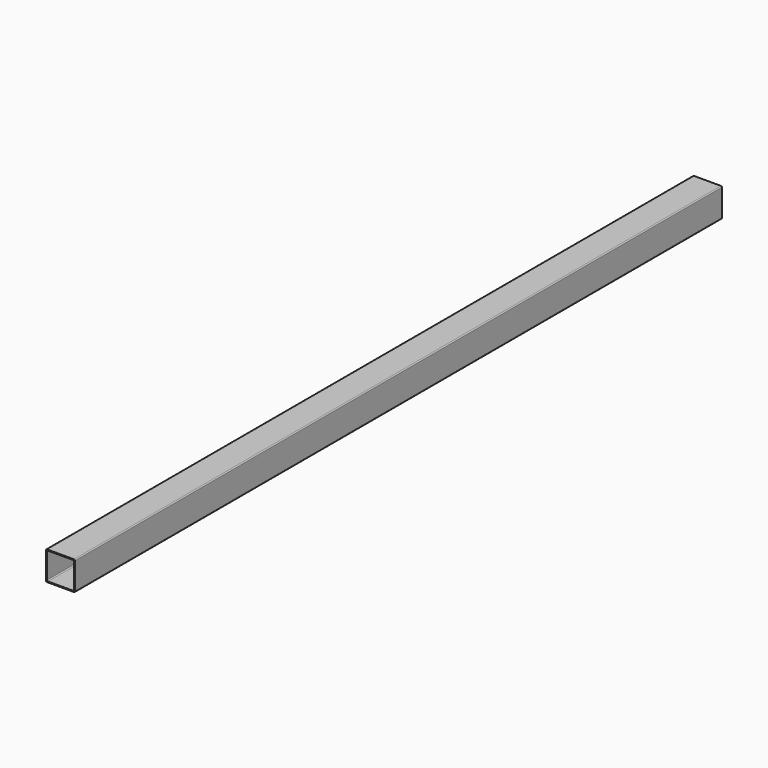
from build123d import *

# Parameters (mm, degrees)
F0_W     = 50.8
F0_H     = 50.8
F0_W_2   = 47.498
F0_H_2   = 47.498
F1_DEPTH = 1422.4
F2_R     = 1.651
F3_R     = 1.651


with BuildPart() as f1:
    # F0 (on Front) → F1 (new body)
    with BuildSketch(Plane.XZ):
        Rectangle(F0_W, F0_H)
        Rectangle(F0_W_2, F0_H_2, mode=Mode.SUBTRACT)
    extrude(amount=-F1_DEPTH)

    # F2
    f2_edges = [f1.edges().sort_by_distance(p)[0] for p in [
        (-23.749, 711.2, 23.749),
        (23.749, 711.2, 23.749),
        (-23.749, 711.2, -23.749),
        (23.749, 711.2, -23.749),
    ]]
    fillet(f2_edges, radius=F2_R)

    # F3
    f3_edges = [f1.edges().sort_by_distance(p)[0] for p in [
        (-25.4, 711.2, 25.4),
        (-25.4, 711.2, -25.4),
        (25.4, 711.2, 25.4),
        (25.4, 711.2, -25.4),
    ]]
    fillet(f3_edges, radius=F3_R)


solid = f1.part
